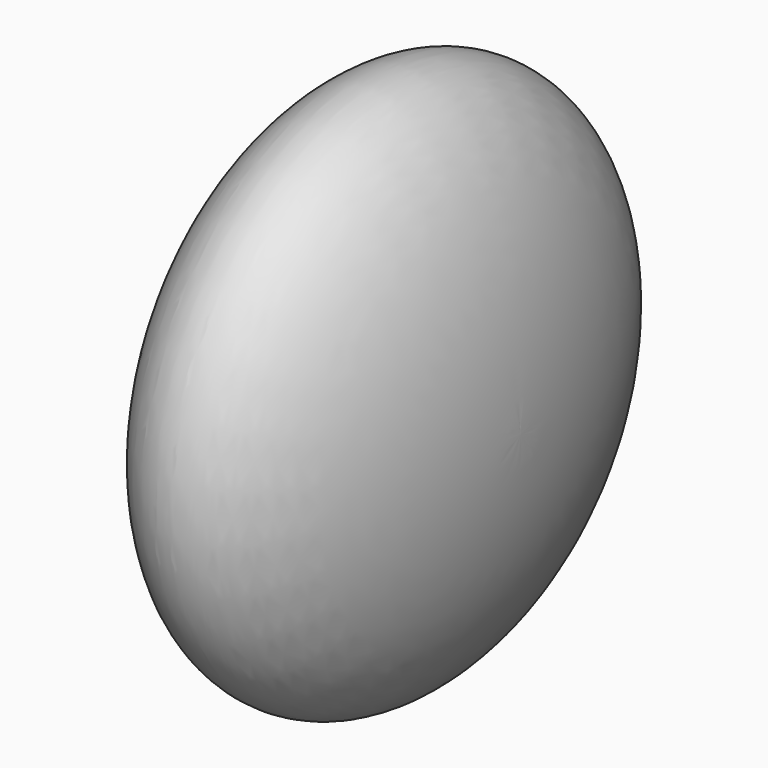
from build123d import *


with BuildPart() as f2:
    # F1 (on Front) → F2 (revolve)
    with BuildSketch(Plane.XZ):
        with BuildLine():
            add(Edge.make_bspline(
                [(25.4, 0), (25.4, 50.8), (0, 50.8)],
                knots=[4.712389, 4.712389, 4.712389, 6.283185, 6.283185, 6.283185], degree=2, weights=[1, 0.707107, 1]))
            add(Edge.make_bspline(
                [(0, 50.8), (-25.4, 50.8), (-25.4, 0)],
                knots=[0, 0, 0, 1.570796, 1.570796, 1.570796], degree=2, weights=[1, 0.707107, 1]))
            Line((-25.4, 0), (25.4, 0))
        make_face()
    revolve(axis=Axis((-7.288696, 0, 0), (1, 0, 0)))


solid = f2.part
